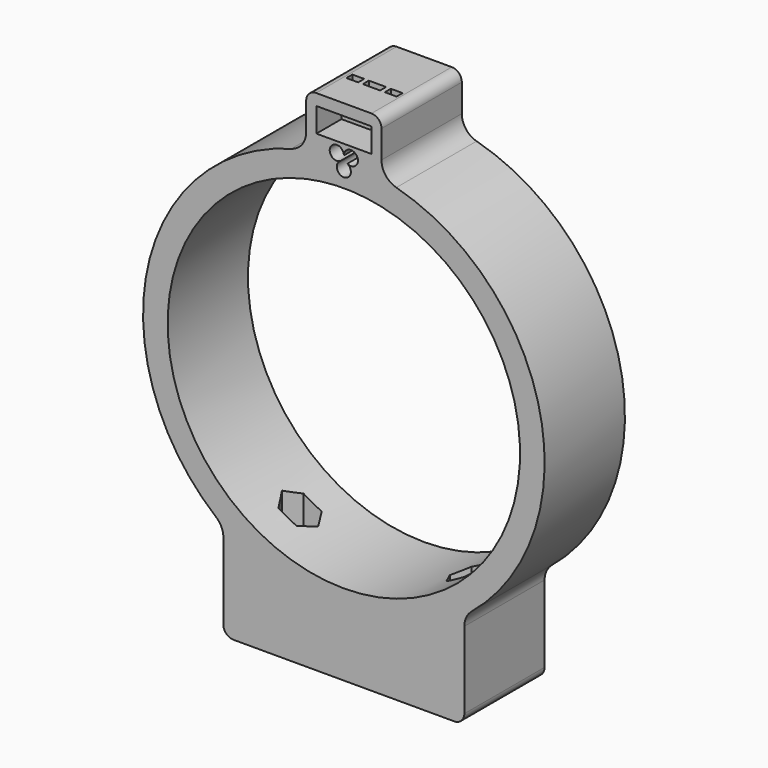
from build123d import *

# Parameters (mm, degrees)
F1_DEPTH  = 25.4
F3_DEPTH  = 6.35
F5_DEPTH  = 7.9375
F6_W      = 12.7
F6_H      = 1.905
F7_DEPTH  = 6.858
F8_W      = 1.190625
F8_H      = 1.905
F9_DEPTH  = 12.7
F11_DEPTH = 25.4
F12_W     = 15.08125
F12_H     = 12.7
F13_DEPTH = 5.3578125
F14_R     = 2.5796875
F15_DEPTH = 25.4
F18_DEPTH = 25.4
F19_W     = 25.003125
F19_H     = 9.921875
F20_DEPTH = 4.5640625
F21_R     = 2.54
F22_R     = 2.54
F23_R     = 5.08


with BuildPart() as f1:
    # F0 (on Front) → F1 (new body)
    with BuildSketch(Plane.XZ):
        with BuildLine():
            ThreePointArc((9.525, 43.5474833257), (34.7253859158, 27.9509660298), (44.577, 0))
            ThreePointArc((44.577, 0), (-27.9509660298, -34.7253859158), (-9.525, 43.5474833257))
            Line((-9.525, 43.5474833257), (-9.525, 49.8990418245))
            ThreePointArc((-9.525, 49.8990418245), (-32.3787739113, -39.1440289189), (50.8, 0))
            ThreePointArc((50.8, 0), (39.1440289189, 32.3787739113), (9.525, 49.8990418245))
            Line((9.525, 49.8990418245), (9.525, 43.5474833257))
        make_face()
        with BuildLine():
            ThreePointArc((-9.525, 43.5474833257), (0, 44.577), (9.525, 43.5474833257))
            Line((9.525, 43.5474833257), (9.525, 49.8990418245))
            ThreePointArc((9.525, 49.8990418245), (0, 50.8), (-9.525, 49.8990418245))
            Line((-9.525, 49.8990418245), (-9.525, 43.5474833257))
        make_face()
        with BuildLine():
            ThreePointArc((-9.525, 49.8990418245), (0, 50.8), (9.525, 49.8990418245))
            Line((9.525, 49.8990418245), (9.525, 63.5))
            Line((9.525, 63.5), (-9.525, 63.5))
            Line((-9.525, 63.5), (-9.525, 49.8990418245))
        make_face()
    extrude(amount=F1_DEPTH)

    # F2 (on face) → F3 (cut)
    with BuildSketch(Plane.XZ.offset(25.4)):
        with BuildLine():
            ThreePointArc((0.8929687032, 50.3226047716), (2.6789062266, 50.322604731), (3.571875, 51.8692719891))
            ThreePointArc((3.571875, 51.8692719891), (1.7859375, 53.6552094891), (0, 51.8692719891))
            ThreePointArc((0, 51.8692719891), (0.2392702419, 50.9763032626), (0.8929687032, 50.3226047716))
        make_face()
        with BuildLine():
            ThreePointArc((-0.8929687383, 50.3226047513), (-0.2392702521, 50.976303245), (0, 51.8692719891))
            ThreePointArc((0, 51.8692719891), (-3.3326047479, 52.7622407333), (-0.8929687383, 50.3226047513))
        make_face()
        with BuildLine():
            ThreePointArc((0.8929687032, 50.3226047716), (0.2392702419, 50.9763032626), (0, 51.8692719891))
            ThreePointArc((0, 51.8692719891), (-0.2392702521, 50.976303245), (-0.8929687383, 50.3226047513))
            ThreePointArc((-0.8929687383, 50.3226047513), (-2.03e-08, 50.561875), (0.8929687032, 50.3226047716))
        make_face()
        with BuildLine():
            ThreePointArc((1.7859375, 48.7759375), (1.546667231, 49.6689062734), (0.8929687032, 50.3226047716))
            ThreePointArc((0.8929687032, 50.3226047716), (-2.03e-08, 50.561875), (-0.8929687383, 50.3226047513))
            ThreePointArc((-0.8929687383, 50.3226047513), (-0.8929687558, 47.2292702588), (1.7859375, 48.7759375))
        make_face()
    extrude(amount=-F3_DEPTH, mode=Mode.SUBTRACT)

    # F4 (on face) → F5 (cut)
    with BuildSketch(Plane.XZ.offset(25.4)):
        Polygon((-6.9453125, 60.6226043245), (-6.9453125, 54.4710418245), (6.9453125, 54.4710418245), (6.9453125, 60.6226043245), align=None)
    extrude(amount=-F5_DEPTH, mode=Mode.SUBTRACT)

    # F6 (on face) → F7 (cut)
    with BuildSketch(Plane.XY.offset(63.5)):
        with Locations((0, -15.71625)):
            Rectangle(F6_W, F6_H)
    extrude(amount=-F7_DEPTH, mode=Mode.SUBTRACT)

    # F8 (on face) → F9 (join)
    with BuildSketch(Plane.XY.offset(63.5)):
        with Locations((2.778125, -15.71625)):
            Rectangle(F8_W, F8_H)
        with Locations((-2.778125, -15.71625)):
            Rectangle(F8_W, F8_H)
    extrude(amount=-F9_DEPTH)

    # F10 (on Front) → F11 (join)
    with BuildSketch(Plane.XZ):
        with BuildLine():
            Line((-30.48, -65.0875), (30.48, -65.0875))
            Line((30.48, -65.0875), (30.48, -40.64))
            ThreePointArc((30.48, -40.64), (0, -50.8), (-30.48, -40.64))
            Line((-30.48, -40.64), (-30.48, -65.0875))
        make_face()
    extrude(amount=F11_DEPTH)

    # F12 (on face) → F13 (cut)
    with BuildSketch(Plane(origin=(0, 0, -65.0875), x_dir=(1, 0, 0), z_dir=(0, 0, -1))):
        with Locations((20.0421875, 12.7)):
            Rectangle(F12_W, F12_H)
        with Locations((-20.0421875, 12.7)):
            Rectangle(F12_W, F12_H)
    extrude(amount=-F13_DEPTH, mode=Mode.SUBTRACT)

    # F14 (on face) → F15 (cut)
    with BuildSketch(Plane(origin=(0, 0, -59.7296875), x_dir=(1, 0, 0), z_dir=(0, 0, -1))):
        with Locations((21.2328125, 12.7)):
            Circle(F14_R)
        with Locations((-21.2328125, 12.7)):
            Circle(F14_R)
    extrude(amount=-F15_DEPTH, mode=Mode.SUBTRACT)

    # F17 (on offset) → F18 (cut)
    with BuildSketch(Plane.XY.offset(-48.26)):
        Polygon((18.9414536192, -16.66875), (23.5241713808, -16.66875), (25.8155302617, -12.7), (23.5241713808, -8.73125), (18.9414536192, -8.73125), (16.6500947383, -12.7), align=None)
        Polygon((-25.8155302617, -12.7), (-23.5241713808, -16.66875), (-18.9414536192, -16.66875), (-16.6500947383, -12.7), (-18.9414536192, -8.73125), (-23.5241713808, -8.73125), align=None)
    extrude(amount=F18_DEPTH, mode=Mode.SUBTRACT)

    # F19 (on face) → F20 (cut)
    with BuildSketch(Plane(origin=(0, 0, -65.0875), x_dir=(1, 0, 0), z_dir=(0, 0, -1))):
        with Locations((0, 12.7)):
            Rectangle(F19_W, F19_H)
    extrude(amount=-F20_DEPTH, mode=Mode.SUBTRACT)

    # F21
    f21_edges = [f1.edges().sort_by_distance(p)[0] for p in [
        (-30.48, -12.7, -65.0875),
        (30.48, -12.7, -65.0875),
    ]]
    fillet(f21_edges, radius=F21_R)

    # F22
    f22_edges = [f1.edges().sort_by_distance(p)[0] for p in [
        (-9.525, -12.7, 63.5),
        (9.525, -12.7, 63.5),
    ]]
    fillet(f22_edges, radius=F22_R)

    # F23
    f23_edges = [f1.edges().sort_by_distance(p)[0] for p in [
        (9.525, -12.7, 49.899042),
        (-9.525, -12.7, 49.899042),
        (30.48, -12.7, -40.64),
        (-30.48, -12.7, -40.64),
    ]]
    fillet(f23_edges, radius=F23_R)


solid = f1.part
